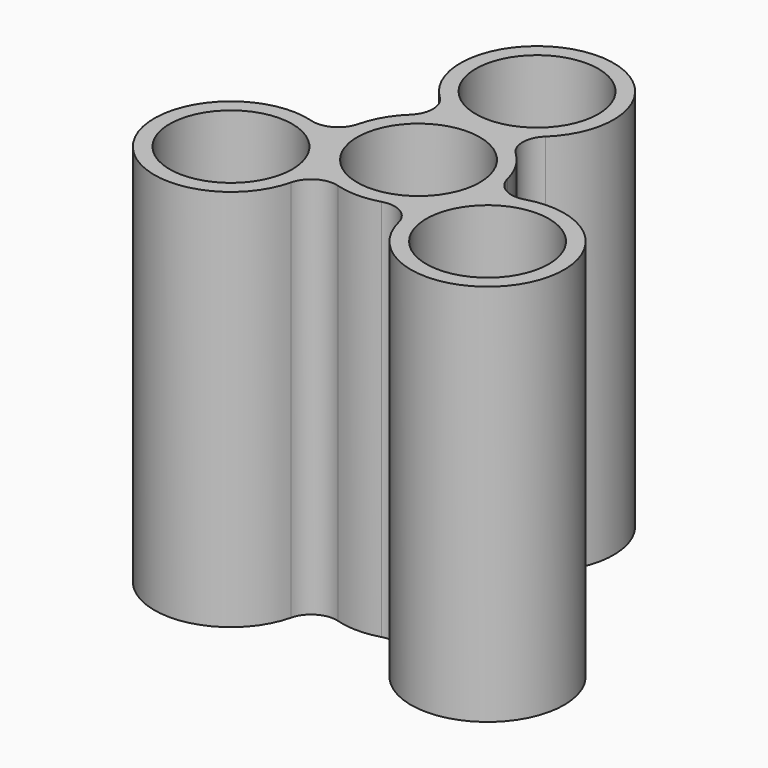
from build123d import *

# Parameters (mm, degrees)
F0_R     = 12
F1_DEPTH = 5
F2_DEPTH = 75
F3_R     = 5


with BuildPart() as f1:
    # F0 (on Top) → F1 (new body)
    with BuildSketch(Plane.XY):
        with BuildLine():
            ThreePointArc((10.637082, -10.576034), (38.105118, -22), (14.477655, -3.923966))
            ThreePointArc((14.477655, -3.923966), (12.990381, 7.5), (3.840573, 14.5))
            ThreePointArc((3.840573, 14.5), (0, 44), (-3.840573, 14.5))
            ThreePointArc((-3.840573, 14.5), (-12.990381, 7.5), (-14.477655, -3.923966))
            ThreePointArc((-14.477655, -3.923966), (-38.105118, -22), (-10.637082, -10.576034))
            ThreePointArc((-10.637082, -10.576034), (0, -15), (10.637082, -10.576034))
        make_face()
        with Locations((-25.114737, -14.5)):
            Circle(F0_R, mode=Mode.SUBTRACT)
        Circle(F0_R, mode=Mode.SUBTRACT)
        with Locations((25.114737, -14.5)):
            Circle(F0_R, mode=Mode.SUBTRACT)
        with Locations((0, 29)):
            Circle(F0_R, mode=Mode.SUBTRACT)
        with Locations((25.114737, -14.5)):
            Circle(F0_R)
        Circle(F0_R)
        with Locations((0, 29)):
            Circle(F0_R)
        with Locations((-25.114737, -14.5)):
            Circle(F0_R)
    extrude(amount=F1_DEPTH)

    # F0 (on Top) → F2 (join)
    with BuildSketch(Plane.XY):
        with BuildLine():
            ThreePointArc((10.637082, -10.576034), (38.105118, -22), (14.477655, -3.923966))
            ThreePointArc((14.477655, -3.923966), (12.990381, 7.5), (3.840573, 14.5))
            ThreePointArc((3.840573, 14.5), (0, 44), (-3.840573, 14.5))
            ThreePointArc((-3.840573, 14.5), (-12.990381, 7.5), (-14.477655, -3.923966))
            ThreePointArc((-14.477655, -3.923966), (-38.105118, -22), (-10.637082, -10.576034))
            ThreePointArc((-10.637082, -10.576034), (0, -15), (10.637082, -10.576034))
        make_face()
        with Locations((-25.114737, -14.5)):
            Circle(F0_R, mode=Mode.SUBTRACT)
        Circle(F0_R, mode=Mode.SUBTRACT)
        with Locations((25.114737, -14.5)):
            Circle(F0_R, mode=Mode.SUBTRACT)
        with Locations((0, 29)):
            Circle(F0_R, mode=Mode.SUBTRACT)
    extrude(amount=F2_DEPTH)

    # F3
    f3_edges = [f1.edges().sort_by_distance(p)[0] for p in [
        (3.840573, 14.5, 37.5),
        (14.477655, -3.923966, 37.5),
        (10.637082, -10.576034, 37.5),
        (-10.637082, -10.576034, 37.5),
        (-14.477655, -3.923966, 37.5),
        (-3.840573, 14.5, 37.5),
    ]]
    fillet(f3_edges, radius=F3_R)


solid = f1.part
